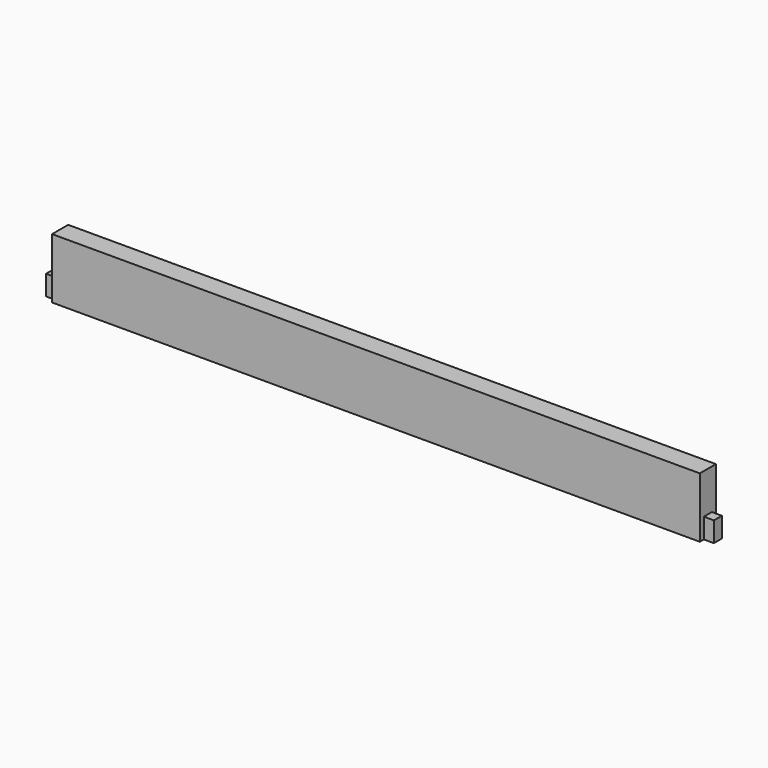
from build123d import *

# Parameters (mm, degrees)
F0_W     = 844.55
F0_H     = 76.2
F1_DEPTH = 25.4
F2_W     = 12.7
F2_H     = 50.8
F3_DEPTH = 25.401
F4_W     = 12.7
F4_H     = 6.35
F5_DEPTH = 76.201
F6_R     = 4.564063
F7_DEPTH = 50.8
F8_R     = 12.7
F9_DEPTH = 19.05


with BuildPart() as f1:
    # F0 (on Front) → F1 (new body)
    with BuildSketch(Plane.XZ):
        with Locations((422.275, 38.1)):
            Rectangle(F0_W, F0_H)
    extrude(amount=F1_DEPTH)

    # F2 (on face) → F3 (cut, through all)
    with BuildSketch(Plane.XZ.offset(25.4)):
        with Locations((6.35, 50.8)):
            Rectangle(F2_W, F2_H)
        with Locations((838.2, 50.8)):
            Rectangle(F2_W, F2_H)
    extrude(amount=-F3_DEPTH, mode=Mode.SUBTRACT)

    # F4 (on face) → F5 (cut, through all)
    with BuildSketch(Plane(origin=(0, 0, 0), x_dir=(1, 0, 0), z_dir=(0, 0, -1))):
        with Locations((838.2, 22.225)):
            Rectangle(F4_W, F4_H)
        with Locations((838.2, 3.175)):
            Rectangle(F4_W, F4_H)
        with Locations((6.35, 22.225)):
            Rectangle(F4_W, F4_H)
        with Locations((6.35, 3.175)):
            Rectangle(F4_W, F4_H)
    extrude(amount=-F5_DEPTH, mode=Mode.SUBTRACT)

    # F6 (on face) → F7 (cut)
    with BuildSketch(Plane(origin=(12.7, 0, 0), x_dir=(0, -1, 0), z_dir=(-1, 0, 0))):
        with Locations((12.7, 50.8)):
            Circle(F6_R)
    extrude(amount=-F7_DEPTH, mode=Mode.SUBTRACT)

    # F8 (on face) → F9 (cut)
    with BuildSketch(Plane(origin=(0, 0, 0), x_dir=(-1, 0, 0), z_dir=(0, 1, 0))):
        with Locations((-66.675, 50.8)):
            Circle(F8_R)
        with Locations((-777.875, 50.8)):
            Circle(F8_R)
    extrude(amount=-F9_DEPTH, mode=Mode.SUBTRACT)


solid = f1.part
